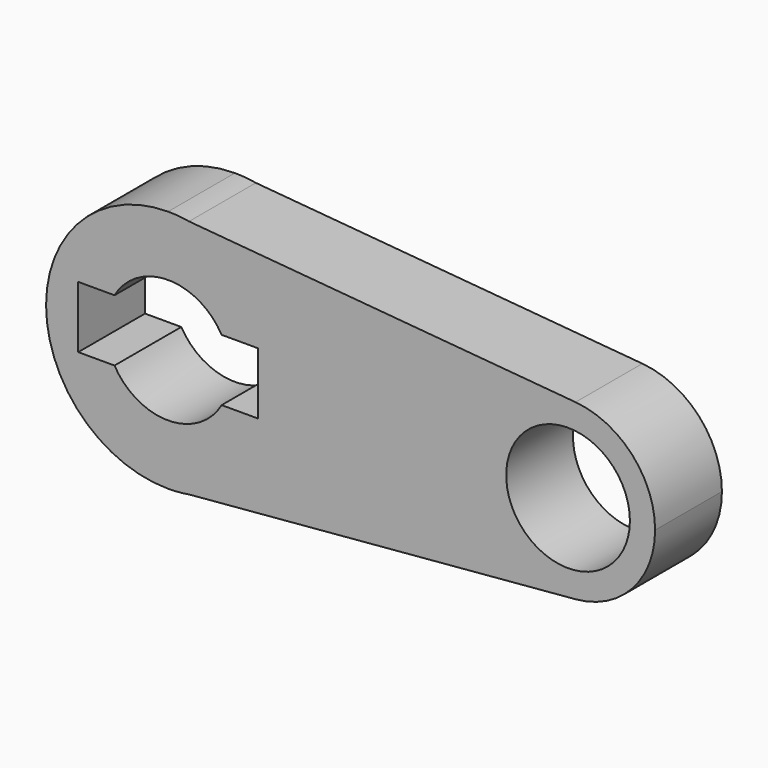
from build123d import *

# Parameters (mm, degrees)
F0_R     = 10.16
F1_DEPTH = 13.716


with BuildPart() as f1:
    # F0 (on Front) → F1 (new body)
    with BuildSketch(Plane.XZ):
        with BuildLine():
            Line((3.440324, 19.740039), (0, 20.037589))
            ThreePointArc((0, 20.037589), (-20.037589, 0), (0, -20.037589))
            Line((0, -20.037589), (3.440324, -19.740039))
            ThreePointArc((3.440324, -19.740039), (15.336896, -12.895138), (20.037589, 0))
            ThreePointArc((20.037589, 0), (15.336896, 12.895138), (3.440324, 19.740039))
        make_face()
        with BuildLine():
            ThreePointArc((-8.798818, 5.08), (0, 10.16), (8.798818, 5.08))
            Line((8.798818, 5.08), (14.754587, 5.08))
            Line((14.754587, 5.08), (14.754587, -5.08))
            Line((14.754587, -5.08), (8.798818, -5.08))
            ThreePointArc((8.798818, -5.08), (0, -10.16), (-8.798818, -5.08))
            Line((-8.798818, -5.08), (-14.754587, -5.08))
            Line((-14.754587, -5.08), (-14.754587, 5.08))
            Line((-14.754587, 5.08), (-8.798818, 5.08))
        make_face(mode=Mode.SUBTRACT)
        with BuildLine():
            ThreePointArc((3.440324, 19.740039), (1.726584, 19.963063), (0, 20.037589))
            Line((0, 20.037589), (3.440324, 19.740039))
        make_face()
        with BuildLine():
            Line((3.440324, -19.740039), (0, -20.037589))
            ThreePointArc((0, -20.037589), (1.726584, -19.963063), (3.440324, -19.740039))
        make_face()
        with BuildLine():
            Line((66.929123, 14.248961), (3.440324, 19.740039))
            ThreePointArc((3.440324, 19.740039), (15.336896, 12.895138), (20.037589, 0))
            ThreePointArc((20.037589, 0), (15.336896, -12.895138), (3.440324, -19.740039))
            Line((3.440324, -19.740039), (66.929123, -14.248961))
            ThreePointArc((66.929123, -14.248961), (51.394591, 0), (66.929123, 14.248961))
        make_face()
        with BuildLine():
            ThreePointArc((79.998901, 0), (76.236606, 9.667626), (66.929123, 14.248961))
            ThreePointArc((66.929123, 14.248961), (51.394591, 0), (66.929123, -14.248961))
            ThreePointArc((66.929123, -14.248961), (76.236606, -9.667626), (79.998901, 0))
        make_face()
        with Locations((65.696746, 0)):
            Circle(F0_R, mode=Mode.SUBTRACT)
    extrude(amount=F1_DEPTH)


solid = f1.part
